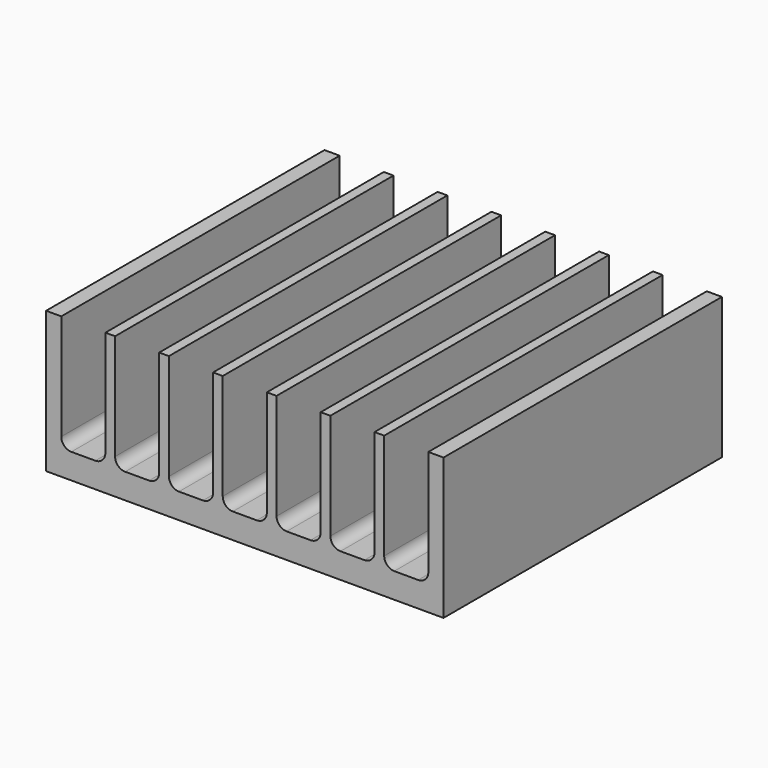
from build123d import *

# Parameters (mm, degrees)
F0_W     = 31.242
F0_H     = 11.0998
F1_DEPTH = 27.3558
F2_W     = 3.468914
F2_H     = 9.1186
F2_W_2   = 3.468915
F3_DEPTH = 27.3568
F4_R     = 0.79375


with BuildPart() as f1:
    # F0 (on Front) → F1 (new body)
    with BuildSketch(Plane.XZ):
        with Locations((15.621, 5.5499)):
            Rectangle(F0_W, F0_H)
    extrude(amount=F1_DEPTH)

    # F2 (on face) → F3 (cut, through all)
    with BuildSketch(Plane.XZ.offset(27.3558)):
        with Locations((2.928257, 6.5405)):
            Rectangle(F2_W, F2_H)
        with Locations((7.159171, 6.5405)):
            Rectangle(F2_W_2, F2_H)
        with Locations((11.390086, 6.5405)):
            Rectangle(F2_W, F2_H)
        with Locations((15.621, 6.5405)):
            Rectangle(F2_W, F2_H)
        with Locations((19.851914, 6.5405)):
            Rectangle(F2_W, F2_H)
        with Locations((24.082828, 6.5405)):
            Rectangle(F2_W_2, F2_H)
        with Locations((28.313743, 6.5405)):
            Rectangle(F2_W, F2_H)
    extrude(amount=-F3_DEPTH, mode=Mode.SUBTRACT)

    # F4
    f4_edges = [f1.edges().sort_by_distance(p)[0] for p in [
        (1.1938, -13.6779, 1.9812),
        (4.662714, -13.6779, 1.9812),
        (5.424714, -13.6779, 1.9812),
        (8.893629, -13.6779, 1.9812),
        (9.655629, -13.6779, 1.9812),
        (13.124543, -13.6779, 1.9812),
        (13.886543, -13.6779, 1.9812),
        (17.355457, -13.6779, 1.9812),
        (18.117457, -13.6779, 1.9812),
        (21.586371, -13.6779, 1.9812),
        (22.348371, -13.6779, 1.9812),
        (25.817286, -13.6779, 1.9812),
        (26.579286, -13.6779, 1.9812),
        (30.0482, -13.6779, 1.9812),
    ]]
    fillet(f4_edges, radius=F4_R)


solid = f1.part
